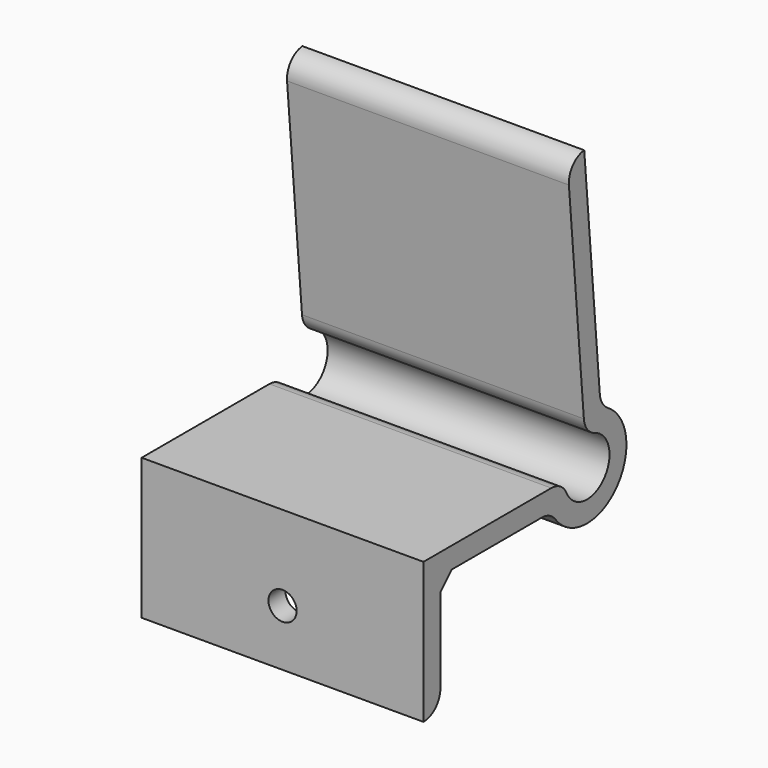
from build123d import *

# Parameters (mm, degrees)
F1_DEPTH = 40
F2_R     = 2
F3_DEPTH = 9.6
F4_SIZE  = 2


with BuildPart() as f1:
    # F0 (on Right) → F1 (new body)
    with BuildSketch(Plane.YZ):
        with BuildLine():
            Line((0, 20), (0, 0))
            ThreePointArc((0, 0), (2.12132, 0.87868), (3, 3))
            Line((3, 3), (3, 17))
            Line((3, 17), (21, 17))
            ThreePointArc((21, 17), (22.341641, 16.683282), (23.4, 15.8))
            ThreePointArc((23.4, 15.8), (34.164312, 15.27455), (32.687463, 25.95001))
            ThreePointArc((32.687463, 25.95001), (31.712786, 26.927793), (31.279221, 28.238547))
            Line((31.279221, 28.238547), (28.514858, 59.835355))
            ThreePointArc((28.514858, 59.835355), (26.485898, 58.771775), (25.799112, 56.586321))
            Line((25.799112, 56.586321), (28.448779, 26.300488))
            ThreePointArc((28.448779, 26.300488), (29.051308, 24.74351), (30.392779, 23.749689))
            ThreePointArc((30.392779, 23.749689), (31.949109, 17.297639), (25.385968, 18.285714))
            ThreePointArc((25.385968, 18.285714), (24.279012, 19.535463), (22.675445, 20))
            Line((22.675445, 20), (0, 20))
        make_face()
    extrude(amount=F1_DEPTH)

    # F2 (on face) → F3 (cut)
    with BuildSketch(Plane(origin=(0, 3, 0), x_dir=(-1, 0, 0), z_dir=(0, 1, 0))):
        with Locations((-20, 8)):
            Circle(F2_R)
    extrude(amount=-F3_DEPTH, mode=Mode.SUBTRACT)

    # F4
    f4_edges = [f1.edges().sort_by_distance(p)[0] for p in [
        (20, 3, 17),
    ]]
    chamfer(f4_edges, length=F4_SIZE)


solid = f1.part
